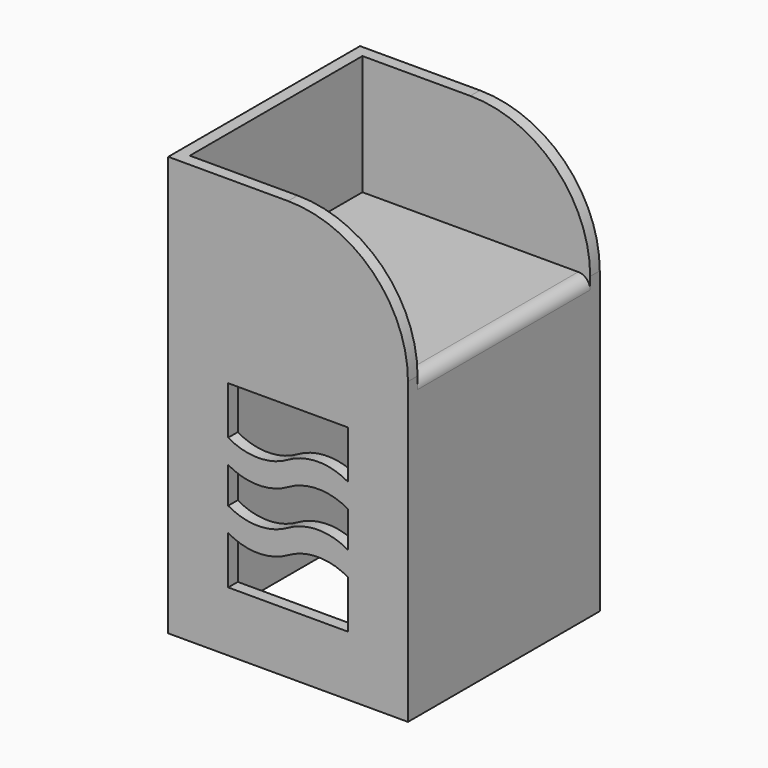
from build123d import *

# Parameters (mm, degrees)
F0_W     = 50.8
F0_H     = 63.5
F1_DEPTH = 25.4
F2_T     = -2.54
F4_DEPTH = 25.4
F5_R     = 25.4
F6_R     = 2.54
F8_DEPTH = 50.8


with BuildPart() as f1:
    # F0 (on Right) → F1 (new body, symmetric)
    with BuildSketch(Plane.YZ):
        Rectangle(F0_W, F0_H)
        Polygon((12.7, -2.54), (12.7, -12.7), (-12.7, -12.7), (-12.7, -2.54), (-12.7, 2.54), (-12.7, 10.16), (-12.7, 15.24), (-12.7, 25.4), (12.7, 25.4), (12.7, 15.24), (12.7, 10.16), (12.7, 2.54), align=None, mode=Mode.SUBTRACT)
        with BuildLine():
            Line((-12.7, -12.7), (12.7, -12.7))
            Line((12.7, -12.7), (12.7, -2.54))
            ThreePointArc((12.7, -2.54), (6.35, -0.8385226281), (0, -2.54))
            ThreePointArc((0, -2.54), (-6.35, -4.2414773719), (-12.7, -2.54))
            Line((-12.7, -2.54), (-12.7, -12.7))
        make_face()
        with BuildLine():
            ThreePointArc((0, 15.24), (6.35, 16.9414773719), (12.7, 15.24))
            Line((12.7, 15.24), (12.7, 25.4))
            Line((12.7, 25.4), (-12.7, 25.4))
            Line((-12.7, 25.4), (-12.7, 15.24))
            ThreePointArc((-12.7, 15.24), (-6.35, 13.5385226281), (0, 15.24))
        make_face()
        with BuildLine():
            ThreePointArc((0, 2.54), (6.35, 4.2414773719), (12.7, 2.54))
            Line((12.7, 2.54), (12.7, 10.16))
            ThreePointArc((12.7, 10.16), (6.35, 11.8614773719), (0, 10.16))
            ThreePointArc((0, 10.16), (-6.35, 8.4585226281), (-12.7, 10.16))
            Line((-12.7, 10.16), (-12.7, 2.54))
            ThreePointArc((-12.7, 2.54), (-6.35, 0.8385226281), (0, 2.54))
        make_face()
        with BuildLine():
            ThreePointArc((0, 10.16), (6.35, 11.8614773719), (12.7, 10.16))
            Line((12.7, 10.16), (12.7, 15.24))
            ThreePointArc((12.7, 15.24), (6.35, 16.9414773719), (0, 15.24))
            ThreePointArc((0, 15.24), (-6.35, 13.5385226281), (-12.7, 15.24))
            Line((-12.7, 15.24), (-12.7, 10.16))
            ThreePointArc((-12.7, 10.16), (-6.35, 8.4585226281), (0, 10.16))
        make_face()
        with BuildLine():
            ThreePointArc((0, -2.54), (6.35, -0.8385226281), (12.7, -2.54))
            Line((12.7, -2.54), (12.7, 2.54))
            ThreePointArc((12.7, 2.54), (6.35, 4.2414773719), (0, 2.54))
            ThreePointArc((0, 2.54), (-6.35, 0.8385226281), (-12.7, 2.54))
            Line((-12.7, 2.54), (-12.7, -2.54))
            ThreePointArc((-12.7, -2.54), (-6.35, -4.2414773719), (0, -2.54))
        make_face()
    extrude(amount=F1_DEPTH, both=True)

    # F2
    f2_openings = [f1.faces().sort_by_distance(p)[0] for p in [
        (0, 0, -31.75),
    ]]
    offset(amount=F2_T, openings=f2_openings)

    # F3 (on face) → F4 (join)
    with BuildSketch(Plane.XY.offset(31.75)):
        Polygon((25.4, -25.4), (25.4, -22.86), (-22.86, -22.86), (-22.86, 22.86), (25.4, 22.86), (25.4, 25.4), (-25.4, 25.4), (-25.4, -25.4), align=None)
    extrude(amount=F4_DEPTH)

    # F5
    f5_edges = [f1.edges().sort_by_distance(p)[0] for p in [
        (25.4, -24.13, 57.15),
        (25.4, 24.13, 57.15),
    ]]
    fillet(f5_edges, radius=F5_R)

    # F6
    f6_edges = [f1.edges().sort_by_distance(p)[0] for p in [
        (25.4, 0, 31.75),
    ]]
    fillet(f6_edges, radius=F6_R)

    # F7 (on face) → F8 (cut)
    with BuildSketch(Plane.XZ.offset(25.4)):
        with BuildLine():
            Line((-12.7, 19.05), (-12.7, 8.89))
            ThreePointArc((-12.7, 8.89), (-6.35, 7.1885226281), (0, 8.89))
            ThreePointArc((0, 8.89), (6.35, 10.5914773719), (12.7, 8.89))
            Line((12.7, 8.89), (12.7, 19.05))
            Line((12.7, 19.05), (-12.7, 19.05))
        make_face()
        with BuildLine():
            Line((-12.7, 3.81), (-12.7, -3.81))
            ThreePointArc((-12.7, -3.81), (-6.35, -5.5114773719), (0, -3.81))
            ThreePointArc((0, -3.81), (6.35, -2.1085226281), (12.7, -3.81))
            Line((12.7, -3.81), (12.7, 3.81))
            ThreePointArc((12.7, 3.81), (6.35, 5.5114773719), (0, 3.81))
            ThreePointArc((0, 3.81), (-6.35, 2.1085226281), (-12.7, 3.81))
        make_face()
        with BuildLine():
            Line((-12.7, -8.89), (-12.7, -19.05))
            Line((-12.7, -19.05), (12.7, -19.05))
            Line((12.7, -19.05), (12.7, -8.89))
            ThreePointArc((12.7, -8.89), (6.35, -7.1885226281), (0, -8.89))
            ThreePointArc((0, -8.89), (-6.35, -10.5914773719), (-12.7, -8.89))
        make_face()
    extrude(amount=-F8_DEPTH, mode=Mode.SUBTRACT)


solid = f1.part
